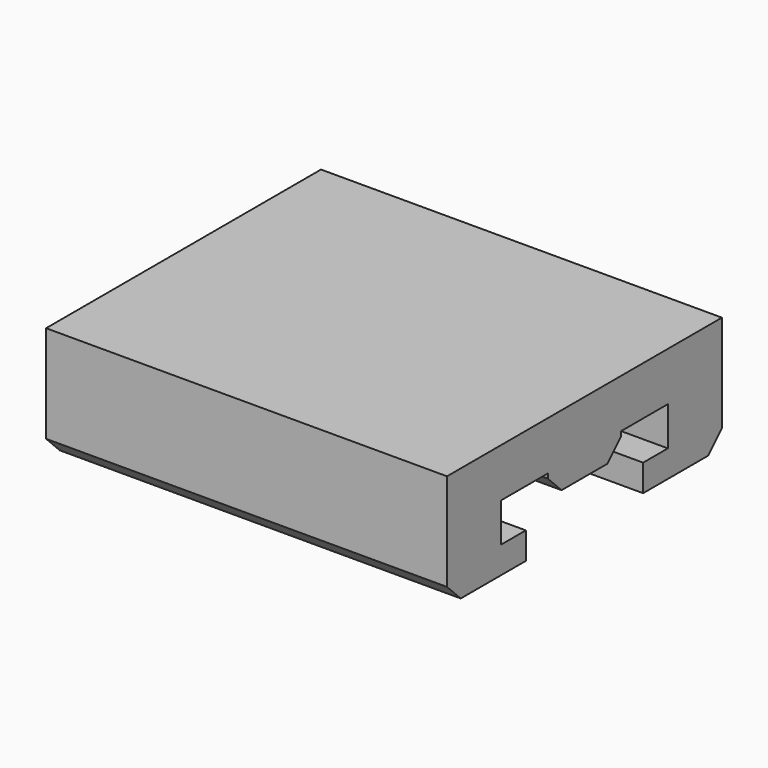
from build123d import *

# Parameters (mm, degrees)
F1_DEPTH = 35
F2_SIZE  = 1.5


with BuildPart() as f1:
    # F0 (on Right) → F1 (new body)
    with BuildSketch(Plane.YZ):
        Polygon((43.557955, -26.808144), (29.057955, -26.808144), (29.057955, -36.808144), (37.657955, -36.808144), (37.657955, -34.458144), (34.957955, -34.458144), (34.957955, -31.058144), (40.057955, -31.058144), (40.057955, -32.958144), (48.057955, -32.958144), (48.057955, -31.058144), (53.157955, -31.058144), (53.157955, -34.458144), (50.457955, -34.458144), (50.457955, -36.808144), (59.057955, -36.808144), (59.057955, -26.808144), (44.557955, -26.808144), align=None)
    extrude(amount=-F1_DEPTH)

    # F2
    f2_edges = [f1.edges().sort_by_distance(p)[0] for p in [
        (-17.5, 59.057955, -36.808144),
        (-17.5, 48.057955, -32.958144),
        (-17.5, 40.057955, -32.958144),
        (-17.5, 29.057955, -36.808144),
    ]]
    chamfer(f2_edges, length=F2_SIZE)


solid = f1.part
